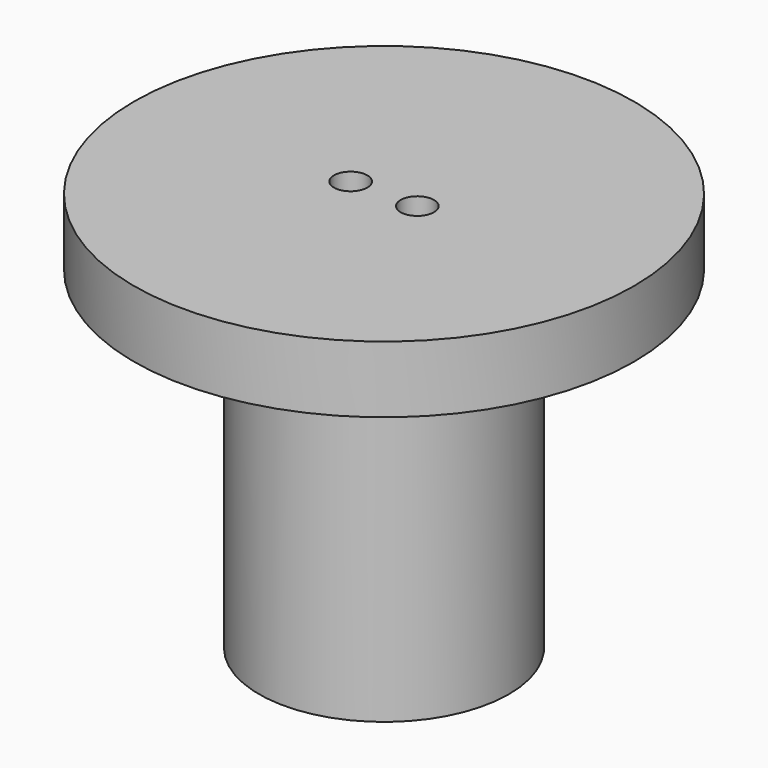
from build123d import *

# Parameters (mm, degrees)
F0_R     = 4.7625
F0_R_2   = 0.635
F1_DEPTH = 12.7
F2_R     = 9.525
F2_R_2   = 4.7625
F2_R_3   = 0.635
F3_DEPTH = 2.54


with BuildPart() as f1:
    # F0 (on Top) → F1 (new body)
    with BuildSketch(Plane.XY):
        Circle(F0_R)
        with Locations((-1.27, 0)):
            Circle(F0_R_2, mode=Mode.SUBTRACT)
        with Locations((1.27, 0)):
            Circle(F0_R_2, mode=Mode.SUBTRACT)
    extrude(amount=F1_DEPTH)

    # F2 (on face) → F3 (join)
    with BuildSketch(Plane.XY.offset(12.7)):
        Circle(F2_R)
        Circle(F2_R_2, mode=Mode.SUBTRACT)
        Circle(F2_R_2)
        with Locations((-1.27, 0)):
            Circle(F2_R_3, mode=Mode.SUBTRACT)
        with Locations((1.27, 0)):
            Circle(F2_R_3, mode=Mode.SUBTRACT)
    extrude(amount=F3_DEPTH)


solid = f1.part
